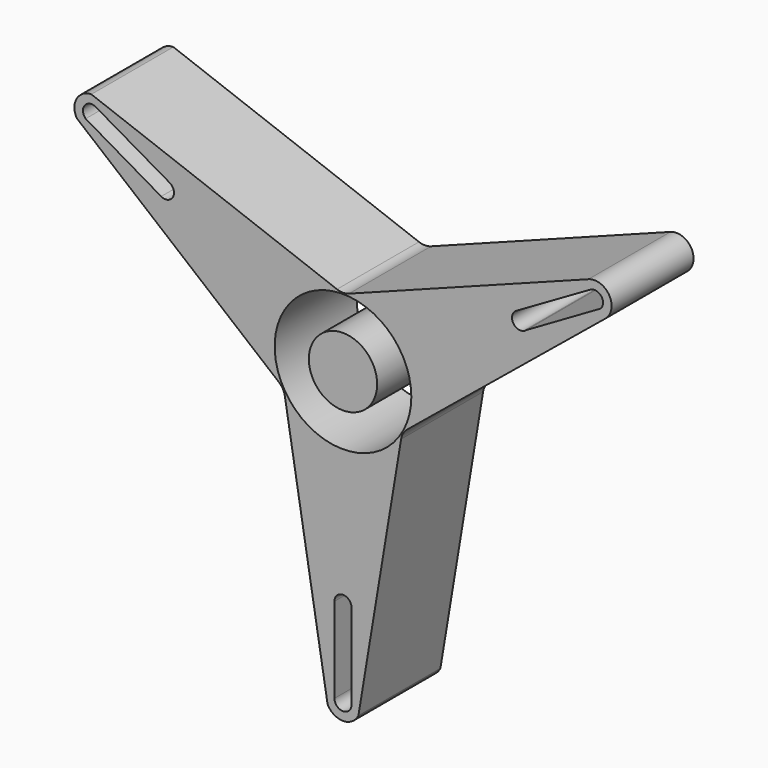
from build123d import *

# Parameters (mm, degrees)
F0_R     = 20
F0_R_2   = 10
F1_DEPTH = 30


with BuildPart() as f1:
    # F0 (on Front) → F1 (new body)
    with BuildSketch(Plane.XZ):
        with BuildLine():
            Line((-17.013764, -11.848328), (-4.518339, -87.141171))
            ThreePointArc((-4.518339, -87.141171), (0, -90), (4.518339, -87.141171))
            Line((4.518339, -87.141171), (17.012023, -11.858818))
            ThreePointArc((17.012023, -11.858818), (17.61756, -10.171999), (18.779037, -8.807078))
            Line((18.779037, -8.807078), (76.777681, 38.629668))
            ThreePointArc((76.777681, 38.629668), (77.942286, 45), (71.843114, 47.176588))
            Line((71.843114, 47.176588), (1.757607, 20.664862))
            ThreePointArc((1.757607, 20.664862), (-0.000731, 20.341462), (-1.760438, 20.657328))
            Line((-1.760438, 20.657328), (-73.649355, 47.499862))
            ThreePointArc((-73.649355, 47.499862), (-77.973549, 44.945053), (-77.896979, 39.923117))
            Line((-77.896979, 39.923117), (-18.766374, -8.808413))
            ThreePointArc((-18.766374, -8.808413), (-17.61464, -10.169576), (-17.013764, -11.848328))
        make_face()
        with BuildLine():
            ThreePointArc((2.5, -85), (0, -87.5), (-2.5, -85))
            Line((-2.5, -85), (-2.5, -60))
            ThreePointArc((-2.5, -60), (0, -57.5), (2.5, -60))
            Line((2.5, -60), (2.5, -85))
        make_face(mode=Mode.SUBTRACT)
        with BuildLine():
            ThreePointArc((-75.318624, 40.672986), (-75.650488, 43.947486), (-72.449526, 44.713206))
            Line((-72.449526, 44.713206), (-50.711696, 32.165163))
            ThreePointArc((-50.711696, 32.165163), (-49.79651, 31.250086), (-49.461524, 30))
            ThreePointArc((-49.461524, 30), (-50.714258, 27.83336), (-53.216986, 27.838099))
            Line((-53.216986, 27.838099), (-75.318624, 40.672986))
        make_face(mode=Mode.SUBTRACT)
        Circle(F0_R, mode=Mode.SUBTRACT)
        with BuildLine():
            ThreePointArc((72.362118, 44.66504), (75.574135, 44.049403), (75.428485, 40.782164))
            Line((75.428485, 40.782164), (53.635538, 28.143207))
            ThreePointArc((53.635538, 28.143207), (53.215749, 27.837381), (52.741827, 27.624894))
            ThreePointArc((52.741827, 27.624894), (49.689439, 28.957105), (50.669314, 32.140138))
            ThreePointArc((50.669314, 32.140138), (50.711483, 32.16504), (50.754131, 32.18911))
            Line((50.754131, 32.18911), (72.362118, 44.66504))
        make_face(mode=Mode.SUBTRACT)
        with BuildLine():
            Line((-17.013764, -11.848328), (-4.518339, -87.141171))
            ThreePointArc((-4.518339, -87.141171), (0, -90), (4.518339, -87.141171))
            Line((4.518339, -87.141171), (17.012023, -11.858818))
            ThreePointArc((17.012023, -11.858818), (17.61756, -10.171999), (18.779037, -8.807078))
            Line((18.779037, -8.807078), (76.777681, 38.629668))
            ThreePointArc((76.777681, 38.629668), (77.942286, 45), (71.843114, 47.176588))
            Line((71.843114, 47.176588), (1.757607, 20.664862))
            ThreePointArc((1.757607, 20.664862), (-0.000731, 20.341462), (-1.760438, 20.657328))
            Line((-1.760438, 20.657328), (-73.649355, 47.499862))
            ThreePointArc((-73.649355, 47.499862), (-77.973549, 44.945053), (-77.896979, 39.923117))
            Line((-77.896979, 39.923117), (-18.766374, -8.808413))
            ThreePointArc((-18.766374, -8.808413), (-17.61464, -10.169576), (-17.013764, -11.848328))
        make_face()
        with BuildLine():
            ThreePointArc((2.5, -85), (0, -87.5), (-2.5, -85))
            Line((-2.5, -85), (-2.5, -60))
            ThreePointArc((-2.5, -60), (0, -57.5), (2.5, -60))
            Line((2.5, -60), (2.5, -85))
        make_face(mode=Mode.SUBTRACT)
        with BuildLine():
            ThreePointArc((-75.318624, 40.672986), (-75.650488, 43.947486), (-72.449526, 44.713206))
            Line((-72.449526, 44.713206), (-50.711696, 32.165163))
            ThreePointArc((-50.711696, 32.165163), (-49.79651, 31.250086), (-49.461524, 30))
            ThreePointArc((-49.461524, 30), (-50.714258, 27.83336), (-53.216986, 27.838099))
            Line((-53.216986, 27.838099), (-75.318624, 40.672986))
        make_face(mode=Mode.SUBTRACT)
        Circle(F0_R, mode=Mode.SUBTRACT)
        with BuildLine():
            ThreePointArc((72.362118, 44.66504), (75.574135, 44.049403), (75.428485, 40.782164))
            Line((75.428485, 40.782164), (53.635538, 28.143207))
            ThreePointArc((53.635538, 28.143207), (53.215749, 27.837381), (52.741827, 27.624894))
            ThreePointArc((52.741827, 27.624894), (49.689439, 28.957105), (50.669314, 32.140138))
            ThreePointArc((50.669314, 32.140138), (50.711483, 32.16504), (50.754131, 32.18911))
            Line((50.754131, 32.18911), (72.362118, 44.66504))
        make_face(mode=Mode.SUBTRACT)
        Circle(F0_R_2)
    extrude(amount=F1_DEPTH)


solid = f1.part
